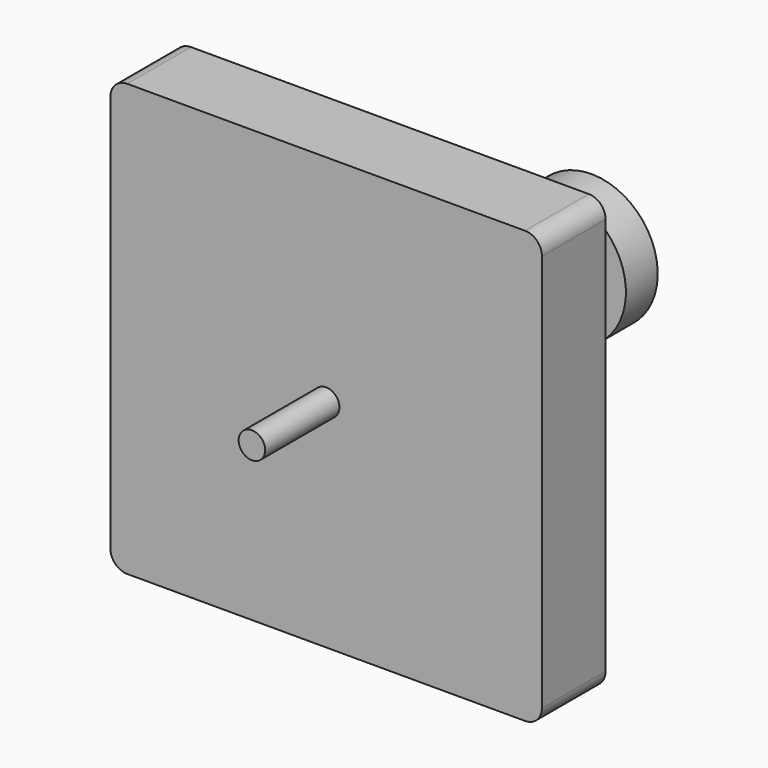
from build123d import *

# Parameters (mm, degrees)
F1_DEPTH = 15
F2_R     = 5
F3_DEPTH = 35
F4_R     = 10
F5_DEPTH = 80
F6_R     = 25
F7_DEPTH = 15


with BuildPart() as f1:
    # F0 (on Front) → F1 (new body, symmetric)
    with BuildSketch(Plane.XZ):
        with BuildLine():
            ThreePointArc((81.35, 75), (79.4901280605, 79.4901280605), (75, 81.35))
            Line((75, 81.35), (-75, 81.35))
            ThreePointArc((-75, 81.35), (-79.4901280605, 79.4901280605), (-81.35, 75))
            Line((-81.35, 75), (-81.35, -75))
            ThreePointArc((-81.35, -75), (-79.4901280605, -79.4901280605), (-75, -81.35))
            Line((-75, -81.35), (75, -81.35))
            ThreePointArc((75, -81.35), (79.4901280605, -79.4901280605), (81.35, -75))
            Line((81.35, -75), (81.35, 75))
        make_face()
    extrude(amount=F1_DEPTH, both=True)

    # F2 (on face) → F3 (join)
    with BuildSketch(Plane.XZ.offset(15)):
        Circle(F2_R)
    extrude(amount=F3_DEPTH)

    # F4 (on face) → F5 (join)
    with BuildSketch(Plane(origin=(0, 15, 0), x_dir=(-1, 0, 0), z_dir=(0, 1, 0))):
        Circle(F4_R)
    extrude(amount=F5_DEPTH)

    # F6 (on face) → F7 (join)
    with BuildSketch(Plane(origin=(0, 95, 0), x_dir=(-1, 0, 0), z_dir=(0, 1, 0))):
        Circle(F6_R)
    extrude(amount=F7_DEPTH)


solid = f1.part
